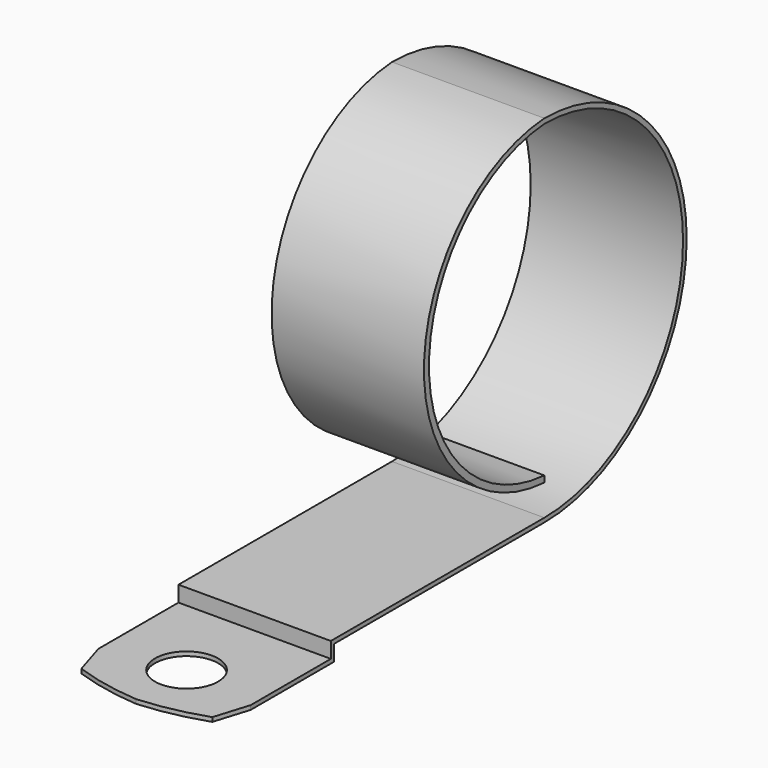
from build123d import *

# Parameters (mm, degrees)
F1_DEPTH = 7.25
F2_R     = 3
F3_DEPTH = 25


with BuildPart() as f1:
    # F0 (on Right) → F1 (new body, symmetric)
    with BuildSketch(Plane.YZ):
        with BuildLine():
            Line((14.5, 0), (14.1, 0))
            Line((14.1, 0), (14.1, -0.4))
            Line((14.1, -0.4), (14.1, -1.5))
            Line((14.1, -1.5), (0, -1.5))
            Line((0, -1.5), (0, -1.9))
            Line((0, -1.9), (14.5, -1.9))
            Line((14.5, -1.9), (14.5, -0.4))
            Line((14.5, -0.4), (39.5, -0.4))
            ThreePointArc((39.5, -0.4), (56.431793, 16.531793), (39.5, 33.463586))
            ThreePointArc((39.5, 33.463586), (25.182343, 18.203119), (39.5, 2.942652))
            Line((39.5, 2.942652), (39.5, 3.544018))
            ThreePointArc((39.5, 3.544018), (25.778463, 18.272009), (39.5, 33))
            ThreePointArc((39.5, 33), (56, 16.5), (39.5, 0))
            Line((39.5, 0), (14.5, 0))
        make_face()
    extrude(amount=F1_DEPTH, both=True)

    # F2 (on face) → F3 (cut)
    with BuildSketch(Plane.XY.offset(-1.5)):
        with BuildLine():
            ThreePointArc((6.233854, 1.274401), (3.159757, 0.427693), (0, 0))
            Line((0, 0), (7.25, 0))
            Line((7.25, 0), (7.25, 4.562755))
            Line((7.25, 4.562755), (6.233854, 1.274401))
        make_face()
        with BuildLine():
            ThreePointArc((0, 0), (-3.159757, 0.427693), (-6.233854, 1.274401))
            Line((-6.233854, 1.274401), (-7.25, 4.562755))
            Line((-7.25, 4.562755), (-7.25, 0))
            Line((-7.25, 0), (0, 0))
        make_face()
        with Locations((0, 6)):
            Circle(F2_R)
    extrude(amount=-F3_DEPTH, mode=Mode.SUBTRACT)


solid = f1.part
